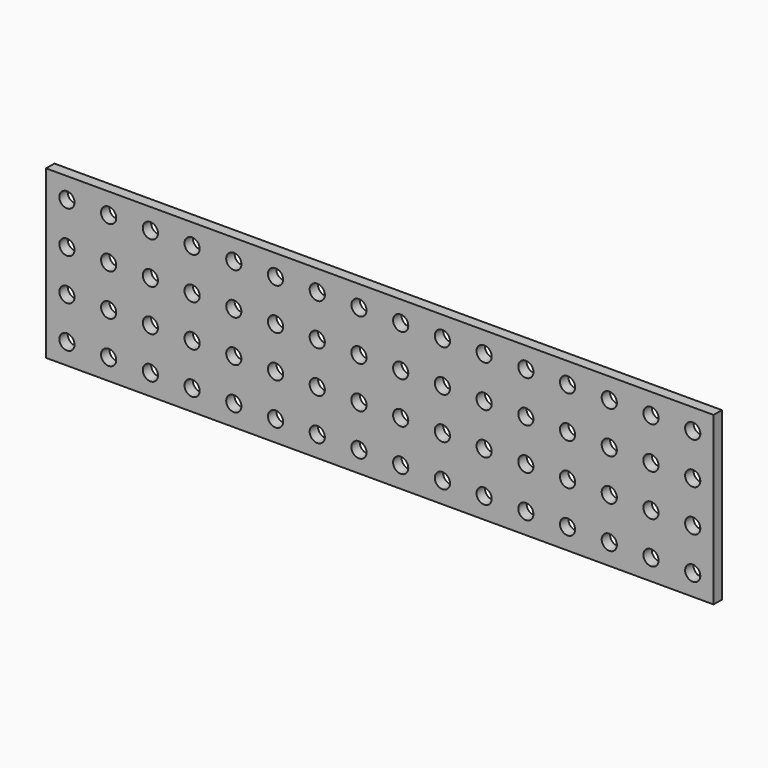
from build123d import *

# Parameters (mm, degrees)
F0_W     = 203.2
F0_H     = 50.8
F0_R     = 2.3114
F1_DEPTH = 3.175


with BuildPart() as f1:
    # F0 (on Front) → F1 (new body)
    with BuildSketch(Plane.XZ):
        with Locations((18.816542, 0.427479)):
            Rectangle(F0_W, F0_H)
        with Locations((-76.433461, -18.622521)):
            Circle(F0_R, mode=Mode.SUBTRACT)
        with Locations((-63.733461, -18.622521)):
            Circle(F0_R, mode=Mode.SUBTRACT)
        with Locations((-51.033461, -18.622521)):
            Circle(F0_R, mode=Mode.SUBTRACT)
        with Locations((-38.333461, -18.622521)):
            Circle(F0_R, mode=Mode.SUBTRACT)
        with Locations((-25.633461, -18.622521)):
            Circle(F0_R, mode=Mode.SUBTRACT)
        with Locations((-12.933461, -18.622521)):
            Circle(F0_R, mode=Mode.SUBTRACT)
        with Locations((-0.233461, -18.622521)):
            Circle(F0_R, mode=Mode.SUBTRACT)
        with Locations((12.466539, -18.622521)):
            Circle(F0_R, mode=Mode.SUBTRACT)
        with Locations((-76.43346, -5.922521)):
            Circle(F0_R, mode=Mode.SUBTRACT)
        with Locations((-63.73346, -5.922521)):
            Circle(F0_R, mode=Mode.SUBTRACT)
        with Locations((-51.03346, -5.922521)):
            Circle(F0_R, mode=Mode.SUBTRACT)
        with Locations((-38.33346, -5.922521)):
            Circle(F0_R, mode=Mode.SUBTRACT)
        with Locations((-25.63346, -5.922521)):
            Circle(F0_R, mode=Mode.SUBTRACT)
        with Locations((-12.93346, -5.922521)):
            Circle(F0_R, mode=Mode.SUBTRACT)
        with Locations((-0.23346, -5.922521)):
            Circle(F0_R, mode=Mode.SUBTRACT)
        with Locations((12.46654, -5.922521)):
            Circle(F0_R, mode=Mode.SUBTRACT)
        with Locations((25.166539, -18.622521)):
            Circle(F0_R, mode=Mode.SUBTRACT)
        with Locations((37.866539, -18.622521)):
            Circle(F0_R, mode=Mode.SUBTRACT)
        with Locations((50.566539, -18.622521)):
            Circle(F0_R, mode=Mode.SUBTRACT)
        with Locations((63.266539, -18.622521)):
            Circle(F0_R, mode=Mode.SUBTRACT)
        with Locations((75.966539, -18.622521)):
            Circle(F0_R, mode=Mode.SUBTRACT)
        with Locations((88.666539, -18.622521)):
            Circle(F0_R, mode=Mode.SUBTRACT)
        with Locations((101.366539, -18.622521)):
            Circle(F0_R, mode=Mode.SUBTRACT)
        with Locations((114.066539, -18.622521)):
            Circle(F0_R, mode=Mode.SUBTRACT)
        with Locations((25.16654, -5.922521)):
            Circle(F0_R, mode=Mode.SUBTRACT)
        with Locations((37.86654, -5.922521)):
            Circle(F0_R, mode=Mode.SUBTRACT)
        with Locations((50.56654, -5.922521)):
            Circle(F0_R, mode=Mode.SUBTRACT)
        with Locations((63.26654, -5.922521)):
            Circle(F0_R, mode=Mode.SUBTRACT)
        with Locations((75.96654, -5.922521)):
            Circle(F0_R, mode=Mode.SUBTRACT)
        with Locations((88.66654, -5.922521)):
            Circle(F0_R, mode=Mode.SUBTRACT)
        with Locations((101.36654, -5.922521)):
            Circle(F0_R, mode=Mode.SUBTRACT)
        with Locations((114.06654, -5.922521)):
            Circle(F0_R, mode=Mode.SUBTRACT)
        with Locations((-76.433459, 6.777479)):
            Circle(F0_R, mode=Mode.SUBTRACT)
        with Locations((-63.733459, 6.777479)):
            Circle(F0_R, mode=Mode.SUBTRACT)
        with Locations((-51.033459, 6.777479)):
            Circle(F0_R, mode=Mode.SUBTRACT)
        with Locations((-38.333459, 6.777479)):
            Circle(F0_R, mode=Mode.SUBTRACT)
        with Locations((-25.633459, 6.777479)):
            Circle(F0_R, mode=Mode.SUBTRACT)
        with Locations((-12.933459, 6.777479)):
            Circle(F0_R, mode=Mode.SUBTRACT)
        with Locations((-0.233459, 6.777479)):
            Circle(F0_R, mode=Mode.SUBTRACT)
        with Locations((12.466541, 6.777479)):
            Circle(F0_R, mode=Mode.SUBTRACT)
        with Locations((-76.433458, 19.477479)):
            Circle(F0_R, mode=Mode.SUBTRACT)
        with Locations((-63.733458, 19.477479)):
            Circle(F0_R, mode=Mode.SUBTRACT)
        with Locations((-51.033458, 19.477479)):
            Circle(F0_R, mode=Mode.SUBTRACT)
        with Locations((-38.333458, 19.477479)):
            Circle(F0_R, mode=Mode.SUBTRACT)
        with Locations((-25.633458, 19.477479)):
            Circle(F0_R, mode=Mode.SUBTRACT)
        with Locations((-12.933458, 19.477479)):
            Circle(F0_R, mode=Mode.SUBTRACT)
        with Locations((-0.233458, 19.477479)):
            Circle(F0_R, mode=Mode.SUBTRACT)
        with Locations((12.466542, 19.477479)):
            Circle(F0_R, mode=Mode.SUBTRACT)
        with Locations((25.166541, 6.777479)):
            Circle(F0_R, mode=Mode.SUBTRACT)
        with Locations((37.866541, 6.777479)):
            Circle(F0_R, mode=Mode.SUBTRACT)
        with Locations((50.566541, 6.777479)):
            Circle(F0_R, mode=Mode.SUBTRACT)
        with Locations((63.266541, 6.777479)):
            Circle(F0_R, mode=Mode.SUBTRACT)
        with Locations((75.966541, 6.777479)):
            Circle(F0_R, mode=Mode.SUBTRACT)
        with Locations((88.666541, 6.777479)):
            Circle(F0_R, mode=Mode.SUBTRACT)
        with Locations((101.366541, 6.777479)):
            Circle(F0_R, mode=Mode.SUBTRACT)
        with Locations((114.066541, 6.777479)):
            Circle(F0_R, mode=Mode.SUBTRACT)
        with Locations((25.166542, 19.477479)):
            Circle(F0_R, mode=Mode.SUBTRACT)
        with Locations((37.866542, 19.477479)):
            Circle(F0_R, mode=Mode.SUBTRACT)
        with Locations((50.566542, 19.477479)):
            Circle(F0_R, mode=Mode.SUBTRACT)
        with Locations((63.266542, 19.477479)):
            Circle(F0_R, mode=Mode.SUBTRACT)
        with Locations((75.966542, 19.477479)):
            Circle(F0_R, mode=Mode.SUBTRACT)
        with Locations((88.666542, 19.477479)):
            Circle(F0_R, mode=Mode.SUBTRACT)
        with Locations((101.366542, 19.477479)):
            Circle(F0_R, mode=Mode.SUBTRACT)
        with Locations((114.066542, 19.477479)):
            Circle(F0_R, mode=Mode.SUBTRACT)
    extrude(amount=F1_DEPTH)


solid = f1.part
